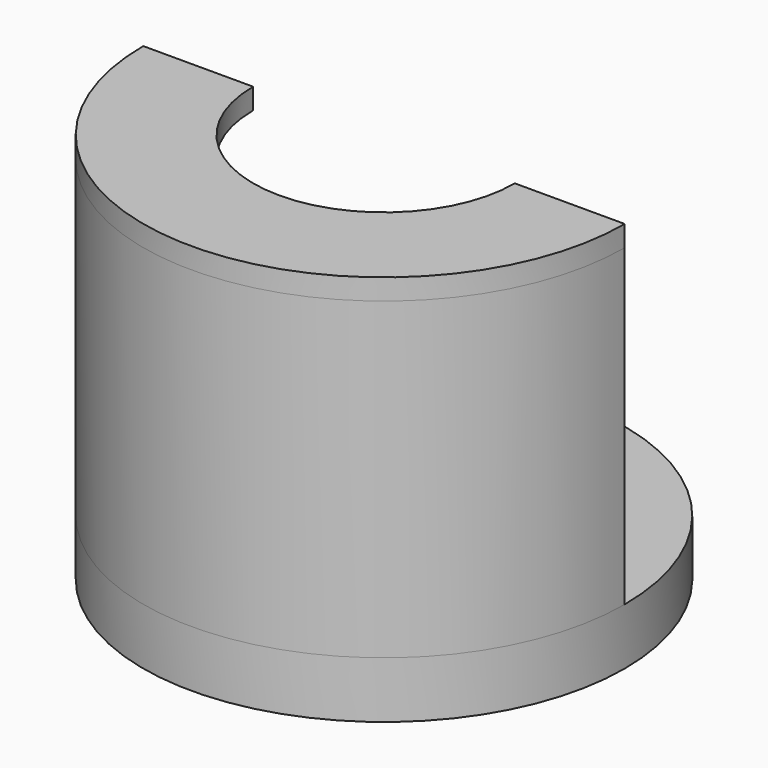
from build123d import *

# Parameters (mm, degrees)
SKETCH_R     = 23
PAD_DEPTH    = 5.4
POCKET_DEPTH = 5
FILLET_R     = 1
FILLET001_R  = 1
PAD001_DEPTH = 30
PAD002_DEPTH = 2


with BuildPart() as part:
    # Sketch → Pad (new body)
    with BuildSketch(Plane.XY):
        Circle(SKETCH_R)
    extrude(amount=PAD_DEPTH)

    # Sketch001 (on DatumPlane) → Groove (revolve, cut)
    with BuildSketch(Plane(origin=(0, 0, 0), x_dir=(0, 0, 1), z_dir=(0, -1, 0))):
        Polygon((9, 15), (9, 0), (2.4, 0), (2.4, 8.165701), (5.4, 10.683), (5.4, 15), align=None)
    revolve(axis=Axis((0, 0, 0), (0, 0, 1)), mode=Mode.SUBTRACT)

    # Sketch002 (on Face5 of Groove) → Pocket (cut)
    with BuildSketch(Plane.XY.offset(2.4)):
        with BuildLine():
            ThreePointArc((2.6, 5), (0, 7.6), (-2.6, 5))
            Line((-2.6, 5), (-2.6, -5))
            ThreePointArc((-2.6, -5), (0, -7.6), (2.6, -5))
            Line((2.6, 5), (2.6, -5))
        make_face()
    extrude(amount=-POCKET_DEPTH, mode=Mode.SUBTRACT)

    # Fillet
    fillet_edges = [part.edges().sort_by_distance(p)[0] for p in [
        (8.165701, 0, 2.4),
        (10.683, 0, 5.4),
    ]]
    fillet(fillet_edges, radius=FILLET_R)

    # Fillet001
    fillet001_edges = [part.edges().sort_by_distance(p)[0] for p in [
        (0, -7.6, 2.4),
    ]]
    fillet(fillet001_edges, radius=FILLET001_R)

    # Sketch003 (on Face19 of Fillet001) → Pad001 (join)
    with BuildSketch(Plane.XY.offset(5.4)):
        with BuildLine():
            ThreePointArc((-23, 0), (0, -23.000004), (23, 1e-06))
            Line((21, 0), (23, 1e-06))
            ThreePointArc((-21, 0), (0, -21.000004), (21, 0))
            Line((-23, 0), (-21, 0))
        make_face()
    extrude(amount=PAD001_DEPTH)

    # Sketch004 (on Face25 of Pad001) → Pad002 (join)
    with BuildSketch(Plane.XY.offset(35.4)):
        with BuildLine():
            ThreePointArc((-23, 0), (0, -23), (23, 0))
            Line((12.5, 4e-06), (23, 0))
            ThreePointArc((-12.5, 0), (2e-06, -12.5), (12.5, 4e-06))
            Line((-23, 0), (-12.5, 0))
        make_face()
    extrude(amount=PAD002_DEPTH)


solid = part.part
